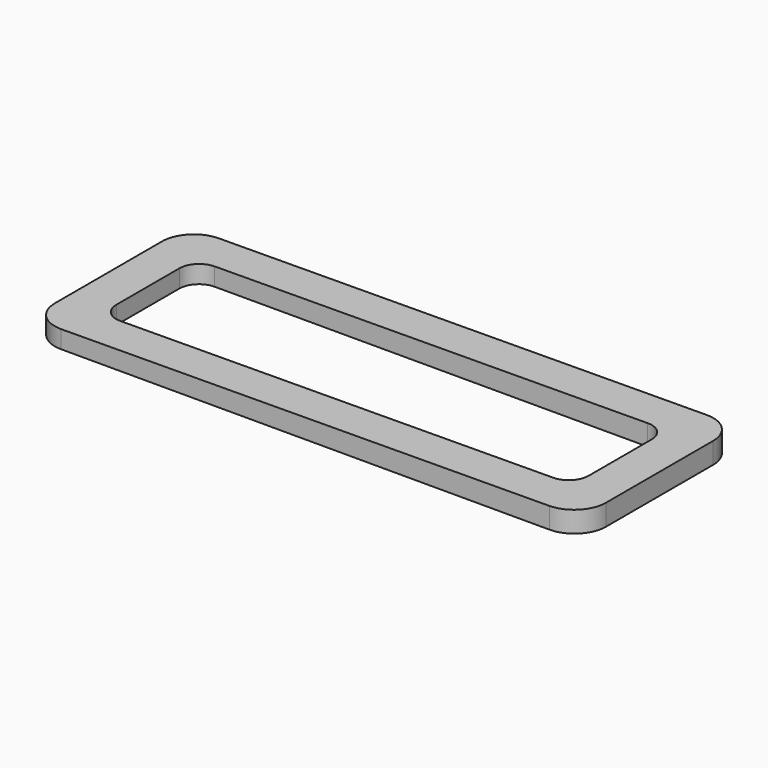
from build123d import *

# Parameters (mm, degrees)
F4_DEPTH = 31.75
F6_DEPTH = 3.407345
F7_R     = 5.08


with BuildPart() as f4:
    # F3 (on face) → F4 (new body)
    with BuildSketch(Plane.XZ):
        Polygon((279.374593, 0), (279.374593, 3.406345), (190.476477, 2.827581), (190.476477, 0), align=None)
    extrude(amount=F4_DEPTH)

    # F5 (on face) → F6 (cut, through all)
    with BuildSketch(Plane(origin=(0, 0, 0), x_dir=(1, 0, 0), z_dir=(0, 0, -1))):
        with BuildLine():
            Line((269.849593, 25.4), (200.001477, 25.4))
            ThreePointArc((200.001477, 25.4), (197.756413, 24.470064), (196.826477, 22.225))
            Line((196.826477, 22.225), (196.826477, 9.525))
            ThreePointArc((196.826477, 9.525), (197.756413, 7.279936), (200.001477, 6.35))
            Line((200.001477, 6.35), (269.849593, 6.35))
            ThreePointArc((269.849593, 6.35), (272.094658, 7.279936), (273.024593, 9.525))
            Line((273.024593, 9.525), (273.024593, 22.225))
            ThreePointArc((273.024593, 22.225), (272.094658, 24.470064), (269.849593, 25.4))
        make_face()
    extrude(amount=-F6_DEPTH, mode=Mode.SUBTRACT)

    # F7
    f7_edges = [f4.edges().sort_by_distance(p)[0] for p in [
        (279.374593, -31.75, 1.703173),
        (190.476477, -31.75, 1.413791),
        (190.476477, 0, 1.413791),
        (279.374593, 0, 1.703173),
    ]]
    fillet(f7_edges, radius=F7_R)


solid = f4.part
